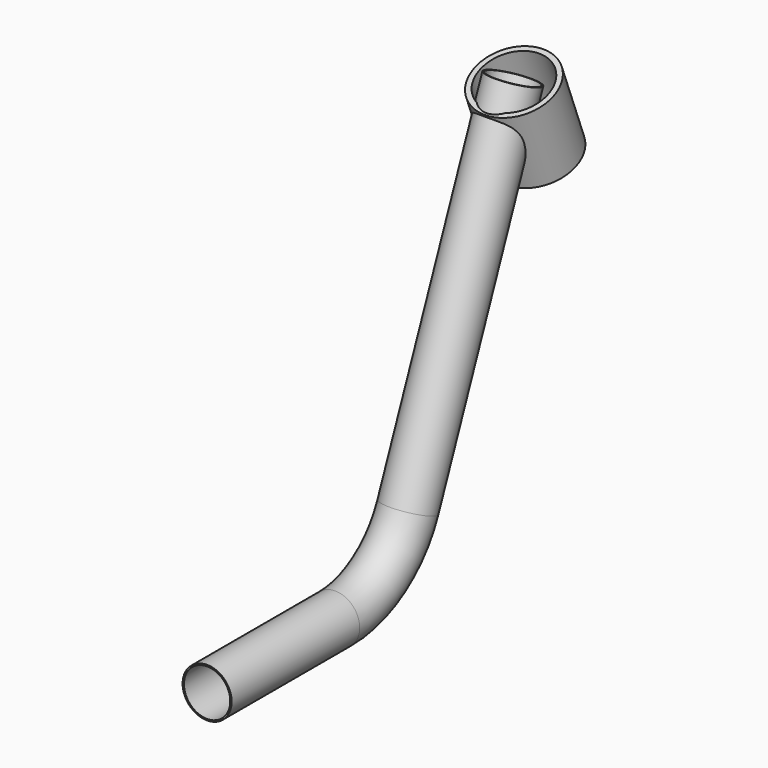
from build123d import *

# Parameters (mm, degrees)
F2_R     = 25.4
F2_R_2   = 22
F3_DEPTH = 50.8
F5_R     = 15.875
F5_R_2   = 14.986


with BuildPart() as f3:
    # F2 (on line) → F3 (new body, through all)
    with BuildSketch(Plane(origin=(0, -95.547330533, 248.9093059323), x_dir=(1, 0, 0), z_dir=(0, -0.3583679495, 0.9335804265))):
        with Locations((0, -5)):
            Circle(F2_R)
        with Locations((0, -5)):
            Circle(F2_R_2, mode=Mode.SUBTRACT)
    extrude(amount=-F3_DEPTH)


with BuildPart() as f7:
    # F7: sweep along a path in F6
    with BuildLine(Plane.YZ) as f7_path:
        Line((-348.55, 0), (-244.8985228166, 0))
        ThreePointArc((-244.8985228166, 0), (-209.412508215, 10.840786488), (-186.0429127507, 39.6616451119))
        Line((-186.0429127507, 39.6616451119), (-101.0918689449, 249.4011817698))
    # F5 (on line) → F7 (sweep)
    with BuildSketch(Plane(origin=(0, -348.55, 0), x_dir=(-1, 0, 0), z_dir=(0, 1, 0))):
        Circle(F5_R)
        Circle(F5_R_2, mode=Mode.SUBTRACT)
    sweep(path=f7_path.line)


solid = Compound([f3.part, f7.part])
